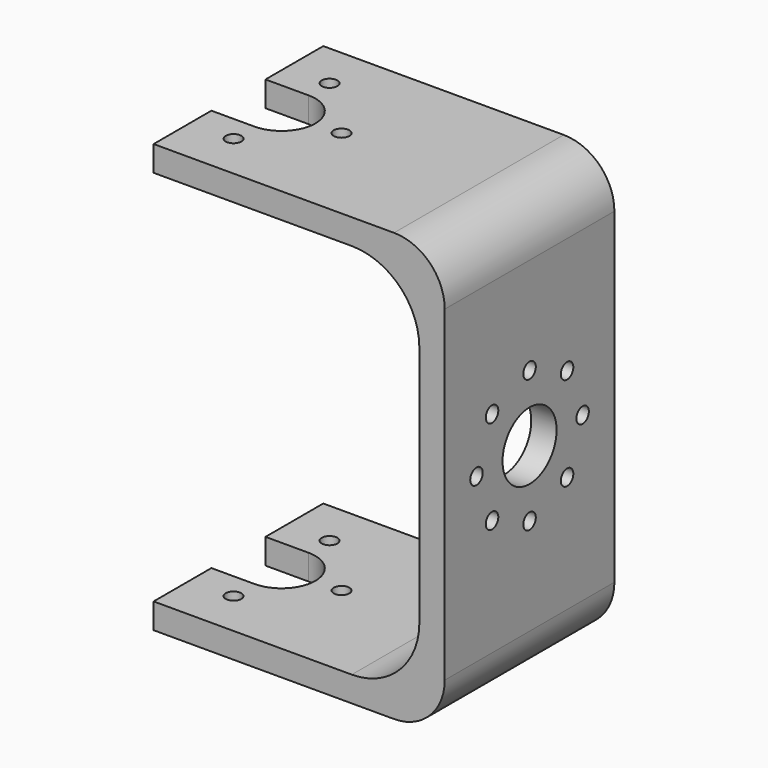
from build123d import *

# Parameters (mm, degrees)
F0_W      = 34.45
F0_H      = 25.1
F1_DEPTH  = 50.65
F2_T      = -3
F3_R      = 4
F3_R_2    = 0.925
F4_DEPTH  = 25
F5_W      = 31.45
F5_H      = 44.65
F6_DEPTH  = 25.101
F7_R      = 8
F8_R      = 6
F9_R      = 0.925
F10_DEPTH = 50.651


with BuildPart() as f1:
    # F0 (on Top) → F1 (new body)
    with BuildSketch(Plane.XY):
        with Locations((1.9014209259, 12.55)):
            Rectangle(F0_W, F0_H)
    extrude(amount=F1_DEPTH)

    # F2
    f2_openings = [f1.faces().sort_by_distance(p)[0] for p in [
        (-15.323579, 12.55, 25.325),
    ]]
    offset(amount=F2_T, openings=f2_openings)

    # F3 (on face) → F4 (cut)
    with BuildSketch(Plane.YZ.offset(19.1264209259)):
        with Locations((12.55, 25.325)):
            Circle(F3_R)
        with Locations((12.55, 17.475)):
            Circle(F3_R_2)
        with Locations((18.1007882323, 19.7742117677)):
            Circle(F3_R_2)
        with Locations((20.4, 25.325)):
            Circle(F3_R_2)
        with Locations((18.1007882323, 30.8757882323)):
            Circle(F3_R_2)
        with Locations((12.55, 33.175)):
            Circle(F3_R_2)
        with Locations((6.9992117677, 30.8757882323)):
            Circle(F3_R_2)
        with Locations((4.7, 25.325)):
            Circle(F3_R_2)
        with Locations((6.9992117677, 19.7742117677)):
            Circle(F3_R_2)
    extrude(amount=-F4_DEPTH, mode=Mode.SUBTRACT)

    # F5 (on face) → F6 (cut, through all)
    with BuildSketch(Plane(origin=(0, 25.1, 0), x_dir=(-1, 0, 0), z_dir=(0, 1, 0))):
        with Locations((-0.4014209259, 25.325)):
            Rectangle(F5_W, F5_H)
    extrude(amount=-F6_DEPTH, mode=Mode.SUBTRACT)

    # F7
    f7_edges = [f1.edges().sort_by_distance(p)[0] for p in [
        (16.126421, 12.55, 47.65),
        (16.126421, 12.55, 3),
    ]]
    fillet(f7_edges, radius=F7_R)

    # F8
    f8_edges = [f1.edges().sort_by_distance(p)[0] for p in [
        (19.126421, 12.55, 50.65),
        (19.126421, 12.55, 0),
    ]]
    fillet(f8_edges, radius=F8_R)

    # F9 (on face) → F10 (cut, through all)
    with BuildSketch(Plane.XY.offset(50.65)):
        with Locations((-10.2235790741, 19.65)):
            Circle(F9_R)
        with Locations((-10.2235790741, 5.45)):
            Circle(F9_R)
        with BuildLine():
            Line((-4.0485790741, 12.55), (-2.1985790741, 12.55))
            ThreePointArc((-2.1985790741, 12.55), (-3.1235790741, 13.475), (-4.0485790741, 12.55))
        make_face()
        with BuildLine():
            ThreePointArc((-4.0485790741, 12.55), (-3.1235790741, 11.625), (-2.1985790741, 12.55))
            Line((-2.1985790741, 12.55), (-4.0485790741, 12.55))
        make_face()
        with BuildLine():
            ThreePointArc((-10.2235790741, 16.55), (-13.0520061988, 15.3784271247), (-14.2235790741, 12.55))
            Line((-14.2235790741, 12.55), (-6.2235790741, 12.55))
            ThreePointArc((-6.2235790741, 12.55), (-7.3951519493, 15.3784271247), (-10.2235790741, 16.55))
        make_face()
        with BuildLine():
            ThreePointArc((-14.2235790741, 12.55), (-13.0520061988, 9.7215728753), (-10.2235790741, 8.55))
            ThreePointArc((-10.2235790741, 8.55), (-7.3951519493, 9.7215728753), (-6.2235790741, 12.55))
            Line((-6.2235790741, 12.55), (-14.2235790741, 12.55))
        make_face()
        with BuildLine():
            Line((-15.3235790741, 16.55), (-15.3235790741, 12.55))
            Line((-15.3235790741, 12.55), (-14.2235790741, 12.55))
            ThreePointArc((-14.2235790741, 12.55), (-13.0520061988, 15.3784271247), (-10.2235790741, 16.55))
            Line((-10.2235790741, 16.55), (-15.3235790741, 16.55))
        make_face()
        with BuildLine():
            Line((-15.3235790741, 12.55), (-15.3235790741, 8.55))
            Line((-15.3235790741, 8.55), (-10.2235790741, 8.55))
            ThreePointArc((-10.2235790741, 8.55), (-13.0520061988, 9.7215728753), (-14.2235790741, 12.55))
            Line((-14.2235790741, 12.55), (-15.3235790741, 12.55))
        make_face()
    extrude(amount=-F10_DEPTH, mode=Mode.SUBTRACT)


solid = f1.part
